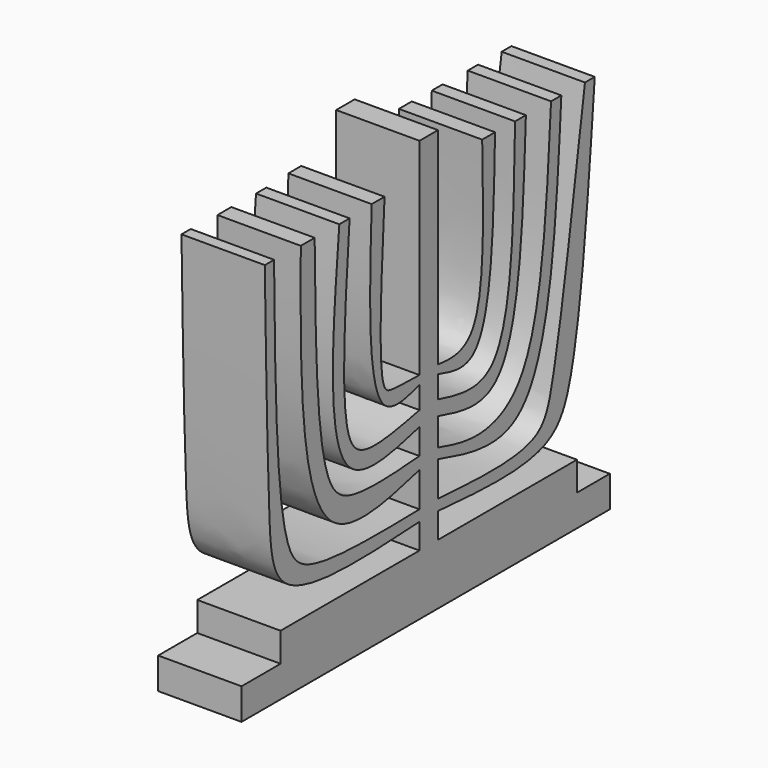
from build123d import *

# Parameters (mm, degrees)
F1_DEPTH = 25.4


with BuildPart() as f1:
    # F0 (on Right) → F1 (new body)
    with BuildSketch(Plane.YZ):
        Polygon((-71.3536882989, -62.8876967296), (69.0008763145, -62.8876967296), (69.0008763145, -53.3263756652), (56.4674834127, -53.3263756652), (56.4674834127, -44.460722529), (3.5255327821, -44.460722529), (-3.5255327821, -44.460722529), (-56.4674834127, -44.460722529), (-56.4674834127, -53.3263756652), (-71.3536882989, -53.3263756652), align=None)
        Polygon((-3.5255327821, -44.460722529), (3.5255327821, -44.460722529), (3.5255327821, -36.7242954671), (3.5255327821, -33.3946272731), (3.5255327821, -22.8180289268), (3.5255327821, -19.6842234582), (3.5255327821, -11.2621178851), (3.5255327821, -6.7572705448), (3.5255327821, 0), (3.5255327821, 2.6441493537), (3.5255327821, 55.5271357298), (3.5255327821, 65.5161440372), (-3.5255327821, 65.5161440372), (-3.5255327821, 55.5271357298), (-3.5255327821, 2.6441493537), (-3.5255327821, 0), (-3.5255327821, -6.7572705448), (-3.5255327821, -11.2621178851), (-3.5255327821, -19.096635282), (-3.5255327821, -22.8180289268), (-3.5255327821, -33.3946272731), (-3.5255327821, -36.7242954671), align=None)
        with BuildLine():
            Line((3.5255327821, -33.3946272731), (3.5255327821, -36.7242954671))
            add(Edge.make_bspline(
                [(3.5255327821, -36.7242954671), (19.5283458683, -37.9115714543), (46.0250919066, -39.8774102191), (57.086801682, -19.6662649434), (60.7679214598, 25.1450505181), (63.2637217641, 55.5271357298)],
                knots=[0, 0, 0, 0, 0.3293254758, 0.5452824731, 1, 1, 1, 1], degree=3))
            Line((63.2637217641, 55.5271357298), (59.542324394, 55.5271357298))
            add(Edge.make_bspline(
                [(59.542324394, 55.5271357298), (55.0176134141, 25.2060017822), (48.567756102, -18.0159826428), (42.1295842811, -35.83733265), (18.2774691458, -34.3280690461), (3.5255327821, -33.3946272731)],
                knots=[0, 0, 0, 0, 0.4727701883, 0.6739215543, 1, 1, 1, 1], degree=3))
        make_face()
        with BuildLine():
            add(Edge.make_bspline(
                [(-3.5255327821, -36.7242954671), (-24.2986218761, -37.8725969995), (-58.7436757829, -39.7766618214), (-61.2954694033, -9.4828326596), (-62.0184453958, 30.5452331605), (-62.4802745879, 56.1147257686)],
                knots=[0, 0, 0, 0, 0.3543477365, 0.5875643641, 1, 1, 1, 1], degree=3))
            Line((-3.5255327821, -36.7242954671), (-3.5255327821, -33.3946272731))
            add(Edge.make_bspline(
                [(-58.9547343552, 56.1147257686), (-58.5518682204, 23.6575228224), (-57.9849643897, -22.0154963092), (-44.9012456447, -34.1194273047), (-19.6651093216, -33.677352688), (-3.5255327821, -33.3946272731)],
                knots=[0, 0, 0, 0, 0.469569513, 0.6607672691, 1, 1, 1, 1], degree=3))
            Line((-58.9547343552, 56.1147257686), (-62.4802745879, 56.1147257686))
        make_face()
        with BuildLine():
            Line((3.5255327821, -19.6842234582), (3.5255327821, -22.8180289268))
            add(Edge.make_bspline(
                [(3.5255327821, -22.8180289268), (15.0074258417, -26.1390970683), (45.1615775397, -34.8610031178), (48.4786261835, 21.0817469198), (50.5326315761, 55.7229965925)],
                knots=[0, 0, 0, 0, 0.3807732074, 1, 1, 1, 1], degree=3))
            Line((50.5326315761, 55.7229965925), (46.6153733432, 55.7229965925))
            add(Edge.make_bspline(
                [(46.6153733432, 55.7229965925), (44.908074699, 27.2957561446), (42.3414520643, -15.4395901418), (19.7553258166, -24.281474601), (8.8547514125, -21.1937779169), (3.5255327821, -19.6842234582)],
                knots=[0, 0, 0, 0, 0.5038360705, 0.757428741, 1, 1, 1, 1], degree=3))
        make_face()
        with BuildLine():
            add(Edge.make_bspline(
                [(-3.5255327821, -22.8180289268), (-16.4749058597, -26.1817426868), (-49.3027052775, -34.7090528466), (-48.9708309091, 21.6160802328), (-48.7698689103, 55.7229965925)],
                knots=[0, 0, 0, 0, 0.3944636347, 1, 1, 1, 1], degree=3))
            Line((-3.5255327821, -22.8180289268), (-3.5255327821, -19.096635282))
            add(Edge.make_bspline(
                [(-43.4815697372, 55.7229965925), (-43.1493925226, 27.3035954994), (-42.6784250485, -12.9899976808), (-28.0554027813, -20.855813996), (-12.619326686, -19.7488037879), (-3.5255327821, -19.096635282)],
                knots=[0, 0, 0, 0, 0.4958091065, 0.7029680312, 1, 1, 1, 1], degree=3))
            Line((-43.4815697372, 55.7229965925), (-48.7698689103, 55.7229965925))
        make_face()
        with BuildLine():
            Line((3.5255327821, -6.7572705448), (3.5255327821, -11.2621178851))
            add(Edge.make_bspline(
                [(3.5255327821, -11.2621178851), (11.5964613447, -13.5255916132), (34.0307157026, -19.8172276939), (35.8520182308, 26.356535863), (37.0180904865, 55.9188649058)],
                knots=[0, 0, 0, 0, 0.3597591627, 1, 1, 1, 1], degree=3))
            Line((37.0180904865, 55.9188649058), (32.904971391, 55.9188649058))
            add(Edge.make_bspline(
                [(32.904971391, 55.9188649058), (32.383994158, 28.9003589611), (31.6256536405, -10.4280924226), (11.0670405767, -8.8444018794), (5.8199367134, -7.3922526292), (3.5255327821, -6.7572705448)],
                knots=[0, 0, 0, 0, 0.5525942812, 0.8043626605, 1, 1, 1, 1], degree=3))
        make_face()
        with BuildLine():
            add(Edge.make_bspline(
                [(-3.5255327821, -11.2621178851), (-13.9628252189, -13.979458265), (-40.9413722155, -21.0033004721), (-36.6880011003, 26.4390107496), (-34.0801477432, 55.5271357298)],
                knots=[0, 0, 0, 0, 0.3868737793, 1, 1, 1, 1], degree=3))
            Line((-3.5255327821, -11.2621178851), (-3.5255327821, -6.7572705448))
            add(Edge.make_bspline(
                [(-30.1628876477, 55.5271357298), (-31.985444285, 30.8578224877), (-34.5222487441, -3.4792305049), (-23.1181589343, -10.8027369268), (-10.8430847617, -8.2681915567), (-3.5255327821, -6.7572705448)],
                knots=[0, 0, 0, 0, 0.5075246544, 0.7064201903, 1, 1, 1, 1], degree=3))
            Line((-30.1628876477, 55.5271357298), (-34.0801477432, 55.5271357298))
        make_face()
        with BuildLine():
            Line((3.5255327821, 2.6441493537), (3.5255327821, 0))
            add(Edge.make_bspline(
                [(3.5255327821, 0), (8.5496923219, -1.4975662301), (23.8660891446, -6.0629703473), (24.703557743, 31.1252007713), (25.266315788, 56.1147257686)],
                knots=[0, 0, 0, 0, 0.3280249002, 1, 1, 1, 1], degree=3))
            Line((25.266315788, 56.1147257686), (20.3697439283, 56.1147257686))
            add(Edge.make_bspline(
                [(20.3697439283, 56.1147257686), (20.8792514929, 35.723351714), (21.6022738177, 6.7867476282), (10.2200746725, 1.8146451795), (5.6493055923, 2.3809979029), (3.5255327821, 2.6441493537)],
                knots=[0, 0, 0, 0, 0.5609253817, 0.7959873449, 1, 1, 1, 1], degree=3))
        make_face()
        with BuildLine():
            add(Edge.make_bspline(
                [(-3.5255327821, 0), (-8.5619762859, -1.4869958031), (-23.9379763758, -6.0267166565), (-22.6242184339, 31.0121575033), (-21.7407848686, 55.9188649058)],
                knots=[0, 0, 0, 0, 0.3275522551, 1, 1, 1, 1], degree=3))
            Line((-3.5255327821, 0), (-3.5255327821, 2.6441493537))
            add(Edge.make_bspline(
                [(-16.8442111462, 55.9188649058), (-18.1566177579, 33.0480107342), (-19.8170856078, 4.1116142591), (-13.5367557364, 2.8459613048), (-7.3849929996, 2.7219505575), (-3.5255327821, 2.6441493537)],
                knots=[0, 0, 0, 0, 0.5842044945, 0.7391404252, 1, 1, 1, 1], degree=3))
            Line((-16.8442111462, 55.9188649058), (-21.7407848686, 55.9188649058))
        make_face()
    extrude(amount=F1_DEPTH)


solid = f1.part
